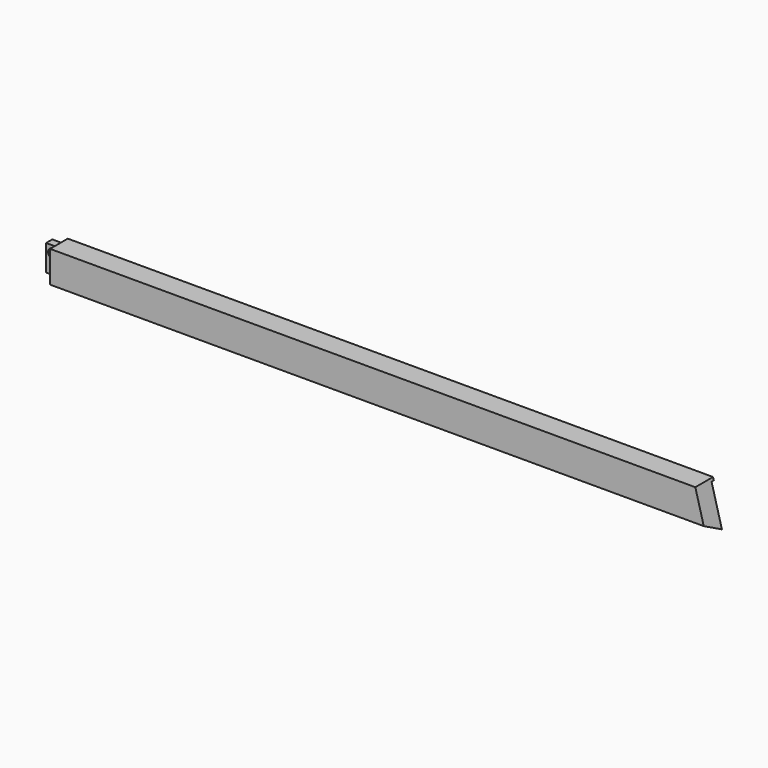
from build123d import *

# Parameters (mm, degrees)
CYLINDER076_R          = 1.6
CYLINDER076_DEPTH      = 6
CYLINDER076_ROLL_ANGLE = 90
CYLINDER074_R          = 1.25
CYLINDER074_DEPTH      = 6
CYLINDER074_ROLL_ANGLE = 90
BOX077_W               = 4.8
BOX077_H               = 2.8
BOX077_DEPTH           = 9.4
BOX075_W               = 237
BOX075_H               = 8
BOX075_DEPTH           = 15
BOX073_W               = 37
BOX073_H               = 160
BOX073_DEPTH           = 120
BOX073_PITCH_ANGLE     = -15
BOX068_W               = 475
BOX068_H               = 10
BOX068_DEPTH           = 10
BOX068_ROLL_ANGLE      = -27
BOX049_W               = 475
BOX049_H               = 8
BOX049_DEPTH           = 15
BOX069_W               = 475
BOX069_H               = 8
BOX069_DEPTH           = 15


with BuildPart() as cylinder076:
    # Cylinder076 → Cylinder076 (new body)
    with BuildSketch(Plane.XY):
        Circle(CYLINDER076_R)
    extrude(amount=CYLINDER076_DEPTH)


with BuildPart() as cylinder076_1:
    # Cylinder076 roll: moved
    add(cylinder076.part.rotate(Axis((0, 0, 0), (1, 0, 0)), CYLINDER076_ROLL_ANGLE))


with BuildPart() as cylinder076_2:
    # Cylinder076 placement: moved
    add(cylinder076_1.part.moved(Location((237.5, -40, 101))))


with BuildPart() as fusion087:
    # Cylinder074 → Cylinder074 (new body)
    with BuildSketch(Plane.XY):
        Circle(CYLINDER074_R)
    extrude(amount=CYLINDER074_DEPTH)


with BuildPart() as fusion087_1:
    # Cylinder074 roll: moved
    add(fusion087.part.rotate(Axis((0, 0, 0), (1, 0, 0)), CYLINDER074_ROLL_ANGLE))


with BuildPart() as fusion087_2:
    # Cylinder074 placement: moved
    add(fusion087_1.part.moved(Location((471, -40, 101))))

    # Fusion087: union Cylinder076
    add(cylinder076_2.part)


with BuildPart() as cube049:
    # Box077 → Box077 (new body)
    with BuildSketch(Plane(origin=(235.2, -42.8, 94.2), x_dir=(1, 0, 0), z_dir=(0, 0, 1))):
        with Locations((2.4, 1.4)):
            Rectangle(BOX077_W, BOX077_H)
    extrude(amount=BOX077_DEPTH)


with BuildPart() as cube047:
    # Box075 → Box075 (new body)
    with BuildSketch(Plane(origin=(3, -47, 90), x_dir=(1, 0, 0), z_dir=(0, 0, 1))):
        with Locations((118.5, 4)):
            Rectangle(BOX075_W, BOX075_H)
    extrude(amount=BOX075_DEPTH)


with BuildPart() as cube045:
    # Box073 → Box073 (new body)
    with BuildSketch(Plane.XY):
        with Locations((18.5, 80)):
            Rectangle(BOX073_W, BOX073_H)
    extrude(amount=BOX073_DEPTH)


with BuildPart() as cube045_1:
    # Box073 pitch: moved
    add(cube045.part.rotate(Axis((0, 0, 0), (0, 1, 0)), BOX073_PITCH_ANGLE))


with BuildPart() as cube045_2:
    # Box073 placement: moved
    add(cube045_1.part.moved(Location((502.2, -50, -4))))


with BuildPart() as cube040:
    # Box068 → Box068 (new body)
    with BuildSketch(Plane.XY):
        with Locations((237.5, 5)):
            Rectangle(BOX068_W, BOX068_H)
    extrude(amount=BOX068_DEPTH)


with BuildPart() as cube040_1:
    # Box068 roll: moved
    add(cube040.part.rotate(Axis((0, 0, 0), (1, 0, 0)), BOX068_ROLL_ANGLE))


with BuildPart() as cube040_2:
    # Box068 placement: moved
    add(cube040_1.part.moved(Location((0, -53.1, 85.5))))


with BuildPart() as cube021:
    # Box049 → Box049 (new body)
    with BuildSketch(Plane(origin=(0, -40, 89), x_dir=(1, 0, 0), z_dir=(0, 0, 1))):
        with Locations((237.5, 4)):
            Rectangle(BOX049_W, BOX049_H)
    extrude(amount=BOX049_DEPTH)


with BuildPart() as cut093:
    # Box069 → Box069 (new body)
    with BuildSketch(Plane(origin=(0, -47, 90), x_dir=(1, 0, 0), z_dir=(0, 0, 1))):
        with Locations((237.5, 4)):
            Rectangle(BOX069_W, BOX069_H)
    extrude(amount=BOX069_DEPTH)

    # Cut066: cut Cube021
    add(cube021.part, mode=Mode.SUBTRACT)

    # Cut067: cut Cube040
    add(cube040_2.part, mode=Mode.SUBTRACT)


with BuildPart() as cut093_1:
    # Cut067 placement: moved
    add(cut093.part.moved(Location((3, 0, 0))))

    # Cut080: cut Cube045
    add(cube045_2.part, mode=Mode.SUBTRACT)

    # Cut083: cut Cube047
    add(cube047.part, mode=Mode.SUBTRACT)

    # Fusion086: union Cube049
    add(cube049.part)

    # Cut093: cut Fusion087
    add(fusion087_2.part, mode=Mode.SUBTRACT)


solid = cut093_1.part
